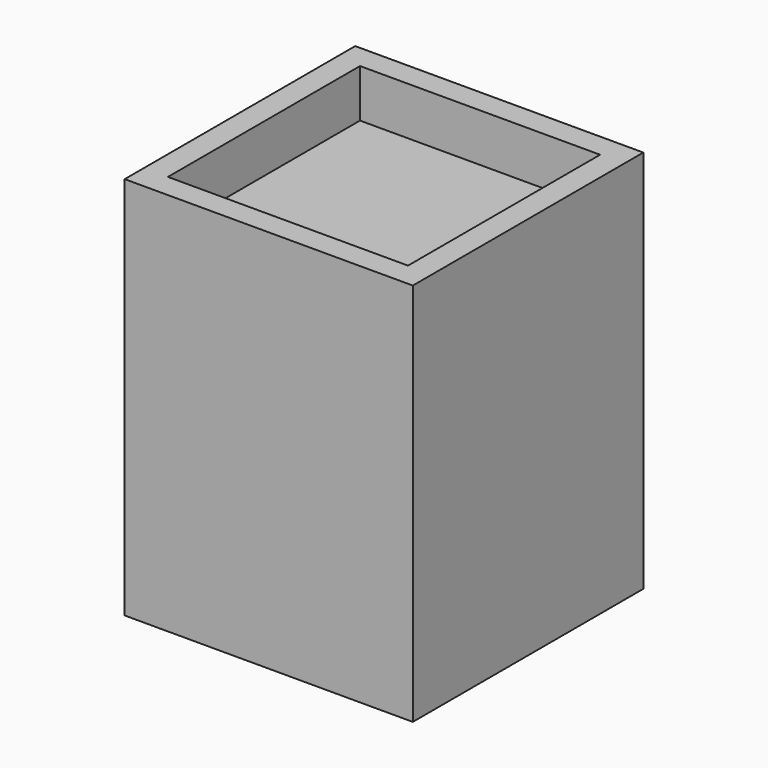
from build123d import *

# Parameters (mm, degrees)
F0_W     = 76.2
F0_H     = 76.2
F1_DEPTH = 76.2
F2_DEPTH = 25.4
F3_W     = 63.5
F3_H     = 63.5000005424
F4_DEPTH = 12.7


with BuildPart() as f1:
    # F0 (on Top) → F1 (new body)
    with BuildSketch(Plane.XY):
        with Locations((2.6339268429, 4.4994018972)):
            Rectangle(F0_W, F0_H)
        with Locations((2.6339268429, 4.4994018972)):
            Rectangle(F0_W, F0_H)
    extrude(amount=F1_DEPTH)

    # F2 (add): a face of the model
    f2_faces = [f1.faces().sort_by_distance(p)[0] for p in [
        (2.6339268429, 4.4994018972, 76.2),
    ]]
    extrude(f2_faces, amount=F2_DEPTH)

    # F3 (on face) → F4 (cut)
    with BuildSketch(Plane.XY.offset(101.6)):
        with Locations((2.6339268429, 4.4994021684)):
            Rectangle(F3_W, F3_H)
    extrude(amount=-F4_DEPTH, mode=Mode.SUBTRACT)


solid = f1.part
